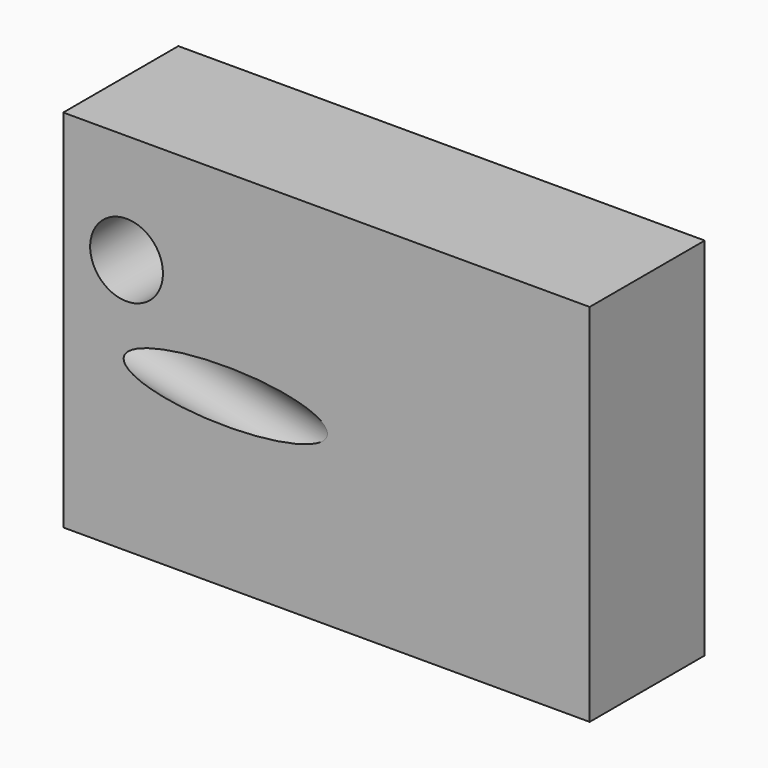
from build123d import *

# Parameters (mm, degrees)
F0_W     = 54.9000054598
F0_H     = 38.1000023335
F1_DEPTH = 15
F4_D     = 5.5
F5_R     = 3.7947326362
F6_DEPTH = 25


with BuildPart() as f1:
    # F0 (on Front) → F1 (new body)
    with BuildSketch(Plane.XZ):
        with Locations((2.7000010014, -1.9500004128)):
            Rectangle(F0_W, F0_H)
    extrude(amount=F1_DEPTH)

    # F4 (through all)
    with Locations(Plane(origin=(31.8803364434, -8.5423104044, 0), x_dir=(-0.2588190451, -0.9659258263, 0), z_dir=(0.9659258263, -0.2588190451, 0))):
        with Locations((16.5139008313, 3.4433358815)):
            Hole(F4_D / 2)

    # F5 (on Front) → F6 (cut)
    with BuildSketch(Plane.XZ):
        with Locations((-18.1499999017, 5.7000000961)):
            Circle(F5_R)
    extrude(amount=F6_DEPTH, mode=Mode.SUBTRACT)


solid = f1.part
